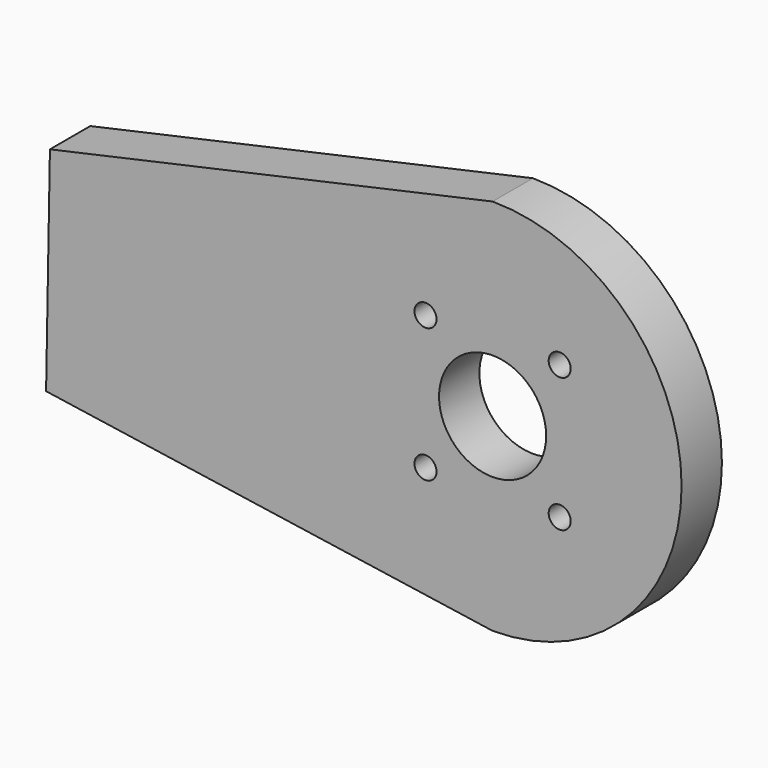
from build123d import *

# Parameters (mm, degrees)
F0_R     = 1.75
F0_R_2   = 8.5
F1_DEPTH = 8


with BuildPart() as f1:
    # F0 (on Front) → F1 (new body)
    with BuildSketch(Plane.XZ):
        with BuildLine():
            Line((-70.877826, -19.559108), (0, -30))
            ThreePointArc((0, -30), (30, 0), (0, 30))
            Line((0, 30), (-70.268902, 14.440892))
            Line((-70.268902, 14.440892), (-70.877826, -19.559108))
        make_face()
        with Locations((-10.65, -10.65)):
            Circle(F0_R, mode=Mode.SUBTRACT)
        with Locations((10.65, -10.65)):
            Circle(F0_R, mode=Mode.SUBTRACT)
        Circle(F0_R_2, mode=Mode.SUBTRACT)
        with Locations((-10.65, 10.65)):
            Circle(F0_R, mode=Mode.SUBTRACT)
        with Locations((10.65, 10.65)):
            Circle(F0_R, mode=Mode.SUBTRACT)
    extrude(amount=F1_DEPTH)


solid = f1.part
